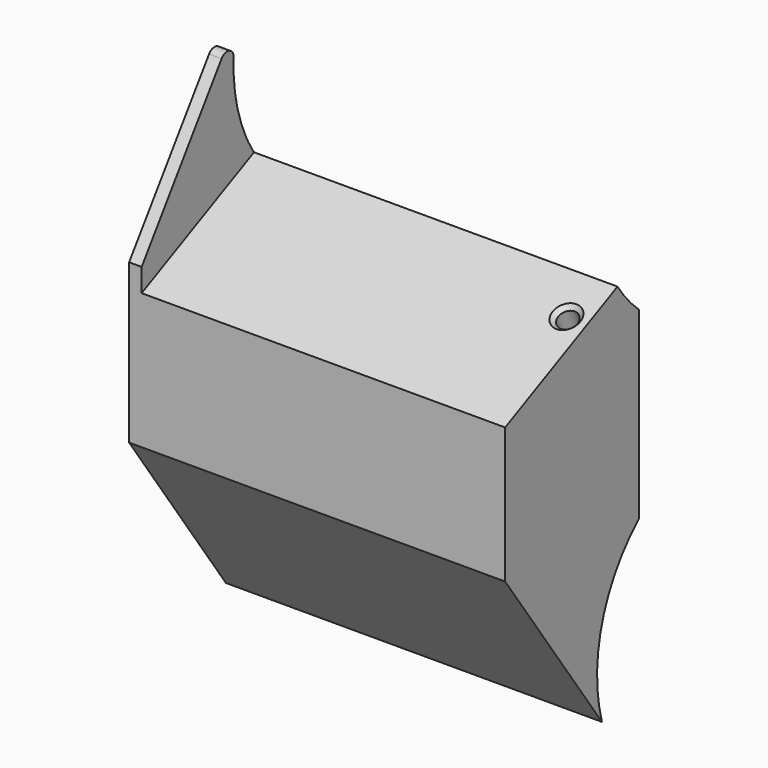
from build123d import *

# Parameters (mm, degrees)
PAD029_DEPTH         = 50
PAD029_DEPTH_BACK    = 40
POCKET025_DEPTH      = 37
POCKET025_DEPTH_BACK = 100
FILLET018_R          = 2
SKETCH057_R          = 2.3
POCKET026_DEPTH      = 15
CHAMFER013_SIZE      = 1


with BuildPart() as part:
    # Sketch055 → Pad029 (new body, two sides)
    with BuildSketch(Plane.YZ) as pad029_sk:
        with BuildLine():
            Line((0, 19), (0, -19))
            Line((0, -19), (28.9586804597, -60.3572817765))
            ThreePointArc((40, -22.0491502813), (28.9668360053, -39.6143804936), (28.9586804597, -60.3572817765))
            Line((40, 22.0491502813), (40, -22.0491502813))
            ThreePointArc((28.9586804597, 60.3572817765), (28.9668360053, 39.6143804936), (40, 22.0491502813))
            Line((0, 19), (28.9586804597, 60.3572817765))
        make_face()
    extrude(amount=PAD029_DEPTH)
    extrude(pad029_sk.sketch, amount=-PAD029_DEPTH_BACK)

    # Sketch056 → Pocket025 (cut, two sides)
    with BuildSketch(Plane.YZ) as pocket025_sk:
        with BuildLine():
            ThreePointArc((28.9586804597, 60.3572817765), (27.6278296398, 46.9063156967), (31.1523619549, 33.8572803169))
            ThreePointArc((31.1523619549, 33.8572803169), (32.3065923695, 31.6317911188), (33.6069416835, 29.4883962222))
            Line((33.6069416835, 29.4883962222), (0, 13.4604701885))
            Line((0, 13.4604701885), (0, 19))
            Line((0, 19), (28.9586804597, 60.3572817765))
        make_face()
    extrude(amount=-POCKET025_DEPTH, mode=Mode.SUBTRACT)
    extrude(pocket025_sk.sketch, amount=POCKET025_DEPTH_BACK, mode=Mode.SUBTRACT)

    # Fillet018
    fillet018_edges = [part.edges().sort_by_distance(p)[0] for p in [
        (-38.5, 28.95868, 60.357282),
    ]]
    fillet(fillet018_edges, radius=FILLET018_R)

    # Sketch057 → Pocket026 (cut)
    with BuildSketch(Plane(origin=(0, -5.2300130023, 10.9661562951), x_dir=(1, 0, 0), z_dir=(0, -0.4304725249, 0.9026036812))):
        with Locations((45, 33.027693654)):
            Circle(SKETCH057_R)
    extrude(amount=-POCKET026_DEPTH, mode=Mode.SUBTRACT)

    # Chamfer013
    chamfer013_edges = [part.edges().sort_by_distance(p)[0] for p in [
        (42.7, 24.580905, 25.183671),
    ]]
    chamfer(chamfer013_edges, length=CHAMFER013_SIZE)


with BuildPart() as part_1:
    # Body029 placement: moved
    add(part.part.moved(Location((0, 10, 0))))


solid = part_1.part
